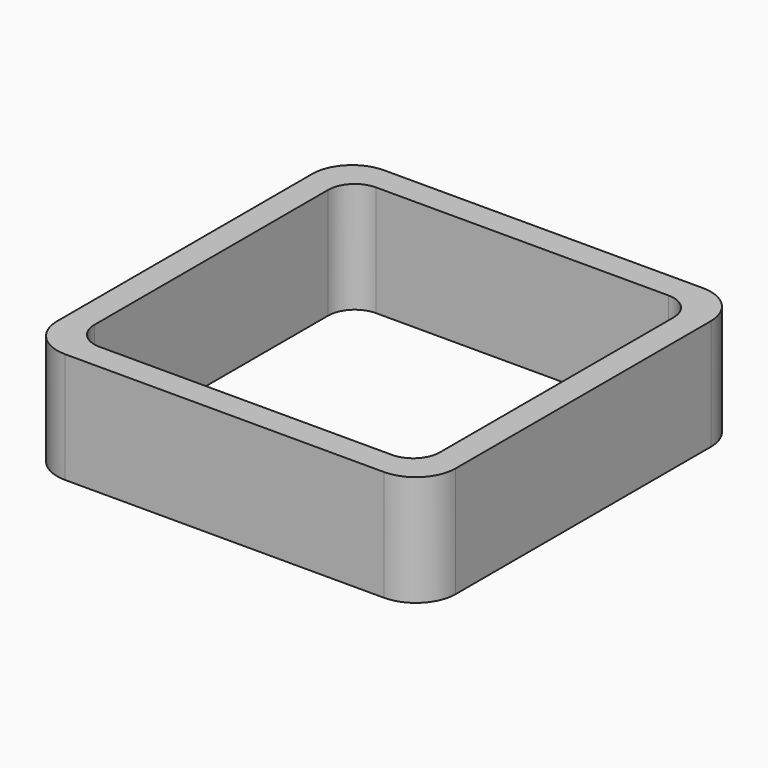
from build123d import *

# Parameters (mm, degrees)
EXTRUDE_DEPTH = 50


with BuildPart() as part:
    # Sketch → Extrude (new body)
    with BuildSketch(Plane.XY):
        with BuildLine():
            Line((-72, 90), (72, 90))
            ThreePointArc((90, 72), (84.727922, 84.727922), (72, 90))
            Line((90, 72), (90, -72))
            ThreePointArc((72, -90), (84.727922, -84.727922), (90, -72))
            Line((72, -90), (-72, -90))
            ThreePointArc((-90, -72), (-84.727922, -84.727922), (-72, -90))
            Line((-90, -72), (-90, 72))
            ThreePointArc((-72, 90), (-84.727922, 84.727922), (-90, 72))
        make_face()
        with BuildLine():
            Line((-66, 78), (66, 78))
            ThreePointArc((78, 66), (74.485281, 74.485281), (66, 78))
            Line((78, 66), (78, -66))
            ThreePointArc((66, -78), (74.485281, -74.485281), (78, -66))
            Line((66, -78), (-66, -78))
            ThreePointArc((-78, -66), (-74.485281, -74.485281), (-66, -78))
            Line((-78, -66), (-78, 66))
            ThreePointArc((-66, 78), (-74.485281, 74.485281), (-78, 66))
        make_face(mode=Mode.SUBTRACT)
    extrude(amount=EXTRUDE_DEPTH)


solid = part.part
